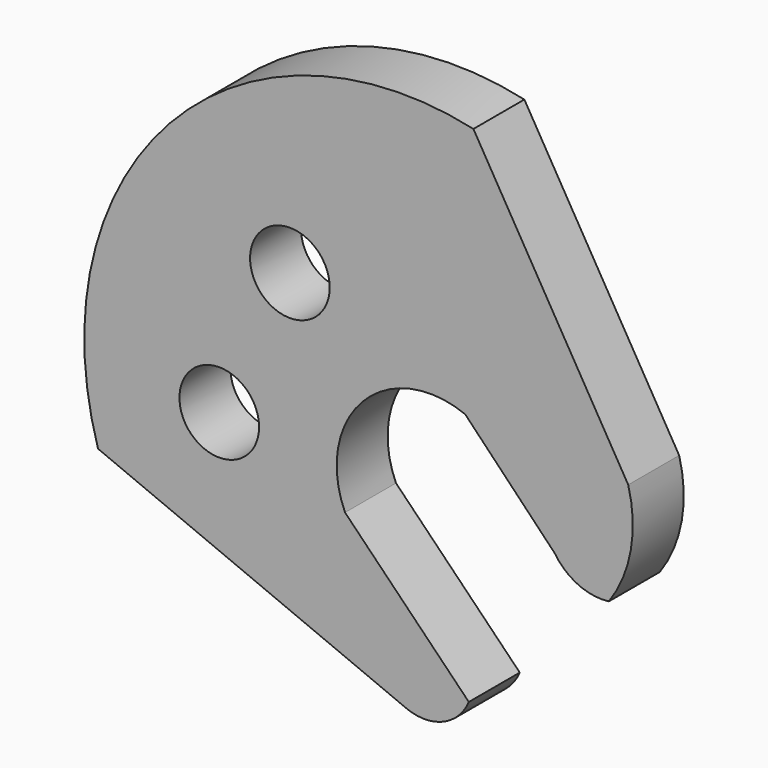
from build123d import *

# Parameters (mm, degrees)
F0_R     = 1.25
F1_DEPTH = 2


with BuildPart() as f1:
    # F0 (on Front) → F1 (new body)
    with BuildSketch(Plane.XZ):
        with BuildLine():
            Line((-8.262549, -4.417103), (1.412663, -8.441991))
            ThreePointArc((1.412663, -8.441991), (2.564742, -8.44398), (3.381119, -7.631072))
            Line((3.381119, -7.631072), (-0.50572, -3.657214))
            ThreePointArc((-0.50572, -3.657214), (0.046897, -0.410799), (3.265094, 0.287637))
            Line((3.265094, 0.287637), (6.078701, -2.641996))
            ThreePointArc((6.078701, -2.641996), (6.81829, -3.272988), (7.779132, -3.42106))
            ThreePointArc((7.779132, -3.42106), (8.468326, -1.778978), (8.386726, 0))
            Line((8.386726, 0), (3.525655, 8.257403))
            ThreePointArc((3.525655, 8.257403), (-6.013726, 5.310522), (-8.262549, -4.417103))
        make_face()
        with Locations((-4.455888, -2.174284)):
            Circle(F0_R, mode=Mode.SUBTRACT)
        with Locations((-2.237289, 2.403779)):
            Circle(F0_R, mode=Mode.SUBTRACT)
    extrude(amount=F1_DEPTH)


solid = f1.part
